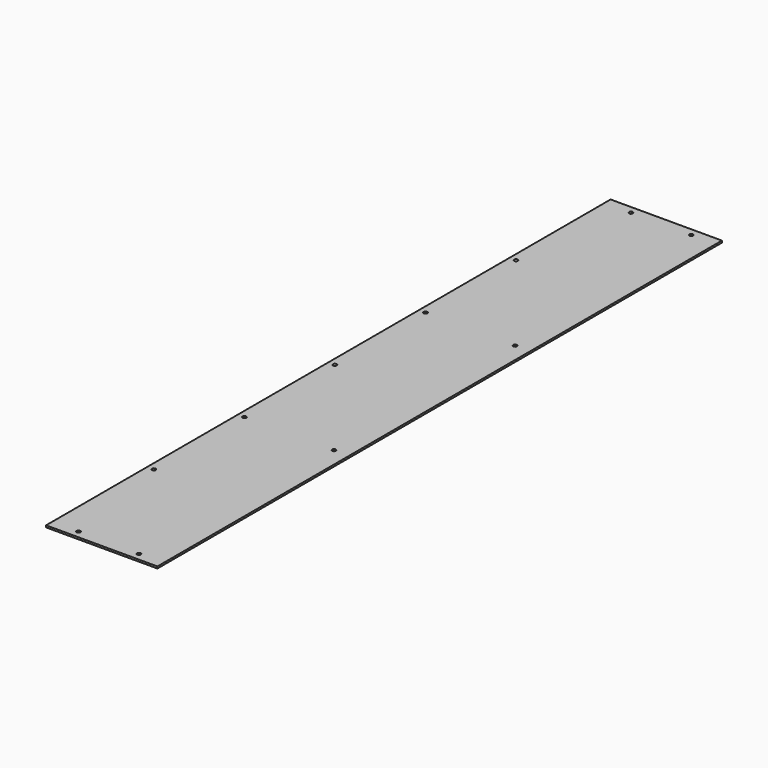
from build123d import *

# Parameters (mm, degrees)
F0_W     = 374.65
F0_H     = 6.35
F1_DEPTH = 1187.45
F2_R     = 6.35
F3_DEPTH = 6.351


with BuildPart() as f1:
    # F0 (on Front) → F1 (new body, symmetric)
    with BuildSketch(Plane.XZ):
        with Locations((187.325, 3.175)):
            Rectangle(F0_W, F0_H)
    extrude(amount=F1_DEPTH, both=True)

    # F2 (on face) → F3 (cut, through all)
    with BuildSketch(Plane(origin=(0, 0, 0), x_dir=(1, 0, 0), z_dir=(0, 0, -1))):
        with Locations((292.1, 1162.05)):
            Circle(F2_R)
        with Locations((88.9, 1162.05)):
            Circle(F2_R)
        with Locations((292.1, -1162.05)):
            Circle(F2_R)
        with Locations((88.9, -1162.05)):
            Circle(F2_R)
        with Locations((22.225, 381)):
            Circle(F2_R)
        with Locations((22.225, -381)):
            Circle(F2_R)
        with Locations((22.225, 762)):
            Circle(F2_R)
        with Locations((22.225, 0)):
            Circle(F2_R)
        with Locations((22.225, -762)):
            Circle(F2_R)
        with Locations((323.85, 381)):
            Circle(F2_R)
        with Locations((323.85, -381)):
            Circle(F2_R)
    extrude(amount=-F3_DEPTH, mode=Mode.SUBTRACT)


solid = f1.part
